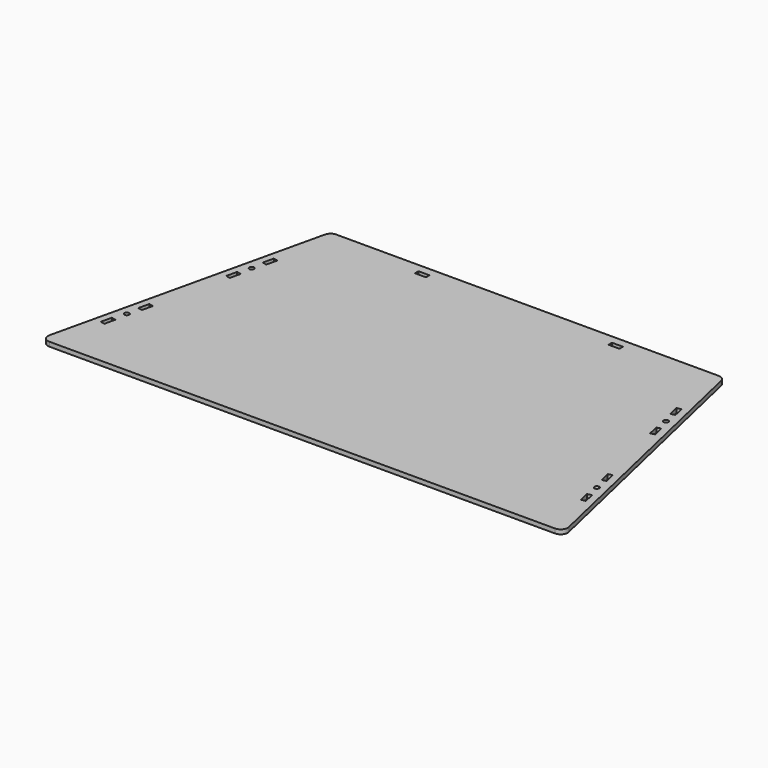
from build123d import *

# Parameters (mm, degrees)
F0_R     = 1.7145
F0_W     = 7.9375
F0_H     = 3.175
F1_DEPTH = 3.175
F2_R     = 5.08


with BuildPart() as f1:
    # F0 (on Top) → F1 (new body)
    with BuildSketch(Plane.XY):
        Polygon((-142.08125, 101.6), (-188.9125, -101.6), (188.9125, -101.6), (142.08125, 101.6), align=None)
        Polygon((-172.048881, -65.186299), (-175.142776, -64.473253), (-173.360161, -56.738514), (-170.266265, -57.45156), align=None, mode=Mode.SUBTRACT)
        with Locations((-169.674074, -47.81335)):
            Circle(F0_R, mode=Mode.SUBTRACT)
        Polygon((-169.081883, -38.17514), (-167.299267, -30.440401), (-164.205372, -31.153447), (-165.987987, -38.888186), align=None, mode=Mode.SUBTRACT)
        Polygon((172.048881, -65.186299), (170.266265, -57.45156), (173.360161, -56.738514), (175.142776, -64.473253), align=None, mode=Mode.SUBTRACT)
        with Locations((169.674074, -47.81335)):
            Circle(F0_R, mode=Mode.SUBTRACT)
        Polygon((167.299267, -30.440401), (169.081883, -38.17514), (165.987987, -38.888186), (164.205372, -31.153447), align=None, mode=Mode.SUBTRACT)
        Polygon((-150.018203, 30.404437), (-151.800819, 22.669698), (-154.894714, 23.382744), (-153.112099, 31.117483), align=None, mode=Mode.SUBTRACT)
        with Locations((-149.582058, 39.722088)):
            Circle(F0_R, mode=Mode.SUBTRACT)
        Polygon((-145.895972, 48.290728), (-148.989868, 49.003775), (-147.207252, 56.738514), (-144.113356, 56.025467), align=None, mode=Mode.SUBTRACT)
        with Locations((-69.85, 94.0125)):
            Rectangle(F0_W, F0_H, mode=Mode.SUBTRACT)
        Polygon((150.018203, 30.404437), (153.112099, 31.117483), (154.894714, 23.382744), (151.800819, 22.669698), align=None, mode=Mode.SUBTRACT)
        with Locations((149.582058, 39.722088)):
            Circle(F0_R, mode=Mode.SUBTRACT)
        with Locations((69.85, 94.0125)):
            Rectangle(F0_W, F0_H, mode=Mode.SUBTRACT)
        Polygon((145.895972, 48.290728), (144.113356, 56.025467), (147.207252, 56.738514), (148.989868, 49.003775), align=None, mode=Mode.SUBTRACT)
    extrude(amount=F1_DEPTH)

    # F2
    f2_edges = [f1.edges().sort_by_distance(p)[0] for p in [
        (-142.08125, 101.6, 1.5875),
        (-188.9125, -101.6, 1.5875),
        (142.08125, 101.6, 1.5875),
        (188.9125, -101.6, 1.5875),
    ]]
    fillet(f2_edges, radius=F2_R)


solid = f1.part
